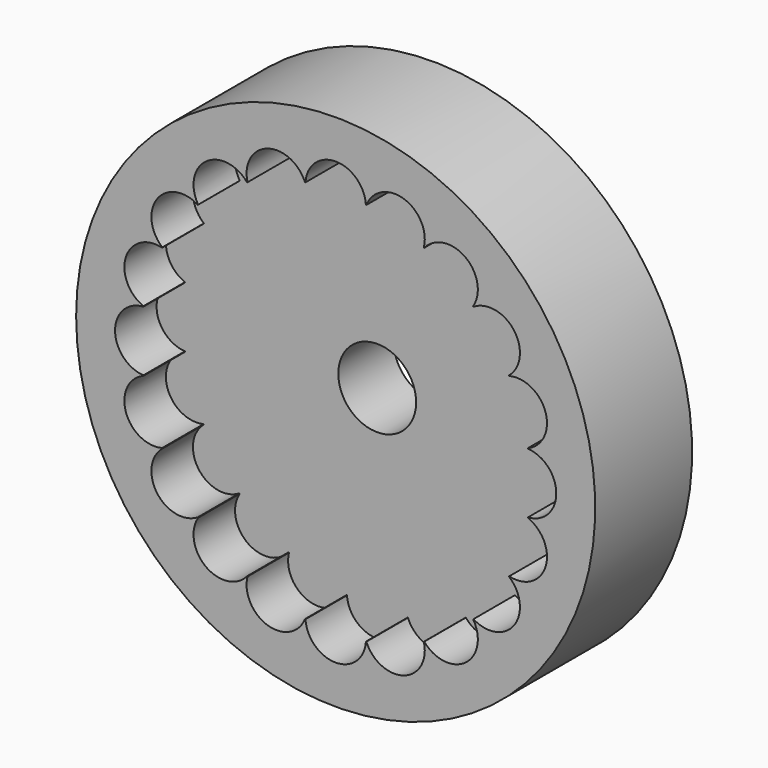
from build123d import *

# Parameters (mm, degrees)
CYLINDER043_R           = 15
CYLINDER043_DEPTH       = 7
CYLINDER044_R           = 11.25
CYLINDER044_DEPTH       = 3
CYLINDER045_R           = 1.75
CYLINDER045_DEPTH       = 3
POLARPATTERN009_COUNT   = 20
CYLINDER048_R           = 2.25
CYLINDER048_DEPTH       = 7
BODY019_PLACEMENT_ANGLE = 90


with BuildPart() as part:
    # Cylinder043 → Cylinder043 (join)
    with BuildSketch(Plane(origin=(0, 0, 3), x_dir=(-1, 0, 0), z_dir=(0, 0, -1))):
        Circle(CYLINDER043_R)
    extrude(amount=CYLINDER043_DEPTH)

    # Cylinder044 → Cylinder044 (cut)
    with BuildSketch(Plane.XY):
        Circle(CYLINDER044_R)
    extrude(amount=CYLINDER044_DEPTH, mode=Mode.SUBTRACT)

    # Cylinder045 → Cylinder045 (cut)
    with BuildSketch(Plane(origin=(0, 11, 0), x_dir=(1, 0, 0), z_dir=(0, 0, 1))):
        Circle(CYLINDER045_R)
    cylinder045 = extrude(amount=CYLINDER045_DEPTH, mode=Mode.SUBTRACT)

    # PolarPattern009: Cylinder045 ×20 about axis
    polarpattern009_axis = Axis((0, 0, 0), (0, 0, 1))
    for i in range(1, POLARPATTERN009_COUNT):
        add(cylinder045.rotate(polarpattern009_axis, i * 360 / POLARPATTERN009_COUNT), mode=Mode.SUBTRACT)

    # Cylinder048 → Cylinder048 (cut)
    with BuildSketch(Plane.XY.offset(-7)):
        Circle(CYLINDER048_R)
    extrude(amount=CYLINDER048_DEPTH, mode=Mode.SUBTRACT)


with BuildPart() as part_1:
    # Body019 placement: moved
    add(part.part.moved(Location((0, 7, 60))).rotate(Axis((0, 7, 60), (1, 0, 0)), BODY019_PLACEMENT_ANGLE))


solid = part_1.part
